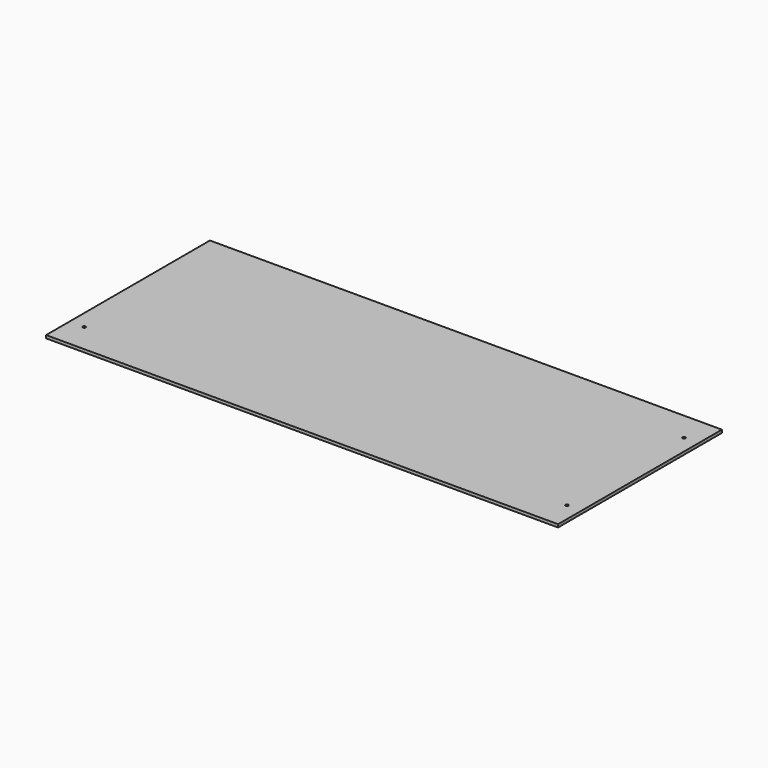
from build123d import *

# Parameters (mm, degrees)
F0_W     = 350
F0_H     = 140
F1_DEPTH = 2
F3_DEPTH = 25
F5_DEPTH = 25
F7_DEPTH = 25


with BuildPart() as f1:
    # F0 (on Top) → F1 (new body)
    with BuildSketch(Plane.XY):
        with Locations((28.687808, -16.453781)):
            Rectangle(F0_W, F0_H)
    extrude(amount=F1_DEPTH)

    # F2 (on face) → F3 (cut)
    with BuildSketch(Plane.XY.offset(2)):
        with BuildLine():
            ThreePointArc((-135.312192, -66.453781), (-137.019299, -65.746674), (-136.312192, -67.453781))
            ThreePointArc((-136.312192, -67.453781), (-135.605085, -67.160887), (-135.312192, -66.453781))
        make_face()
    extrude(amount=-F3_DEPTH, mode=Mode.SUBTRACT)

    # F4 (on face) → F5 (cut)
    with BuildSketch(Plane.XY.offset(2)):
        with BuildLine():
            ThreePointArc((194.687808, 33.546219), (194.394915, 34.253326), (193.687808, 34.546219))
            ThreePointArc((193.687808, 34.546219), (192.980701, 32.839113), (194.687808, 33.546219))
        make_face()
    extrude(amount=-F5_DEPTH, mode=Mode.SUBTRACT)

    # F6 (on face) → F7 (cut)
    with BuildSketch(Plane.XY.offset(2)):
        with BuildLine():
            ThreePointArc((194.687808, -66.453781), (192.980701, -65.746674), (193.687808, -67.453781))
            ThreePointArc((193.687808, -67.453781), (194.394915, -67.160887), (194.687808, -66.453781))
        make_face()
    extrude(amount=-F7_DEPTH, mode=Mode.SUBTRACT)


solid = f1.part
